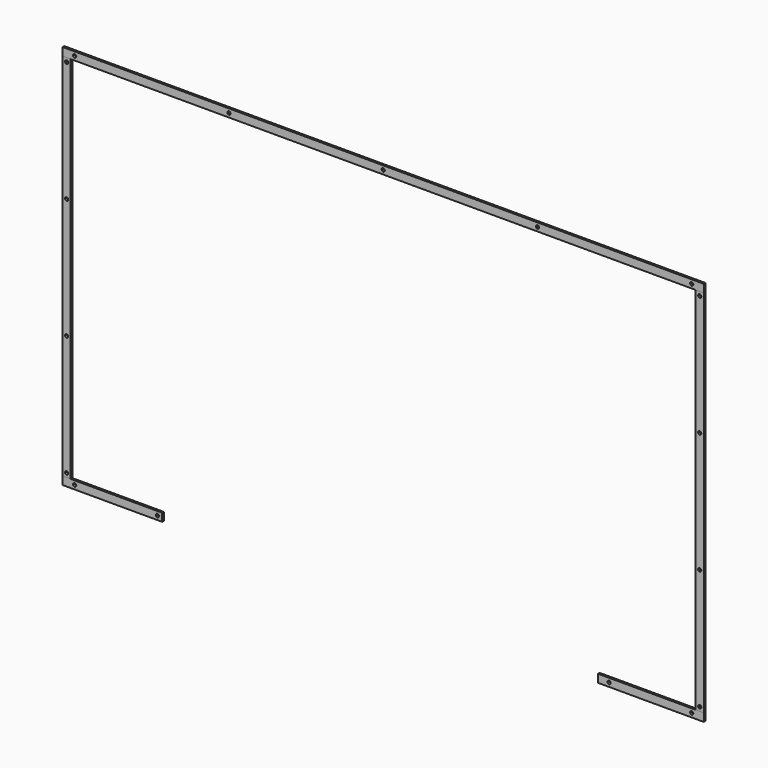
from build123d import *

# Parameters (mm, degrees)
F1_DEPTH = 1.5875
F0_W     = 12.7
F0_H     = 585.7875
F2_DEPTH = 1.5875
F0_R     = 5.969
F3_DEPTH = 1.5875
F4_DEPTH = 1.5875
F5_DEPTH = 1.5875


with BuildPart() as f1:
    # F0 (on Front) → F1 (new body, symmetric)
    with BuildSketch(Plane.XZ):
        Polygon((-350.29902, -292.89375), (-495.3, -292.89375), (-508, -292.89375), (-508, -305.59375), (-350.29902, -305.59375), align=None)
        Polygon((-486.41, -299.24375), (-486.41, -301.78375), (-488.95, -301.78375), (-491.49, -301.78375), (-491.49, -299.24375), (-491.49, -296.70375), (-488.95, -296.70375), (-486.41, -296.70375), align=None, mode=Mode.SUBTRACT)
        Polygon((-357.84, -296.70375), (-355.3, -296.70375), (-355.3, -299.24375), (-355.3, -301.78375), (-357.84, -301.78375), (-360.38, -301.78375), (-360.38, -299.24375), (-360.38, -296.70375), align=None, mode=Mode.SUBTRACT)
        with BuildLine():
            ThreePointArc((-360.38, -299.24375), (-359.636051, -297.447699), (-357.84, -296.70375))
            Line((-357.84, -296.70375), (-360.38, -296.70375))
            Line((-360.38, -296.70375), (-360.38, -299.24375))
        make_face()
        with BuildLine():
            ThreePointArc((-357.84, -301.78375), (-359.636051, -301.039801), (-360.38, -299.24375))
            Line((-360.38, -299.24375), (-360.38, -301.78375))
            Line((-360.38, -301.78375), (-357.84, -301.78375))
        make_face()
        with BuildLine():
            Line((-355.3, -301.78375), (-355.3, -299.24375))
            ThreePointArc((-355.3, -299.24375), (-356.043949, -301.039801), (-357.84, -301.78375))
            Line((-357.84, -301.78375), (-355.3, -301.78375))
        make_face()
        with BuildLine():
            Line((-355.3, -299.24375), (-355.3, -296.70375))
            Line((-355.3, -296.70375), (-357.84, -296.70375))
            ThreePointArc((-357.84, -296.70375), (-356.043949, -297.447699), (-355.3, -299.24375))
        make_face()
        with BuildLine():
            Line((-491.49, -296.70375), (-491.49, -299.24375))
            ThreePointArc((-491.49, -299.24375), (-490.746051, -297.447699), (-488.95, -296.70375))
            Line((-488.95, -296.70375), (-491.49, -296.70375))
        make_face()
        with BuildLine():
            Line((-491.49, -301.78375), (-488.95, -301.78375))
            ThreePointArc((-488.95, -301.78375), (-490.746051, -301.039801), (-491.49, -299.24375))
            Line((-491.49, -299.24375), (-491.49, -301.78375))
        make_face()
        with BuildLine():
            Line((-488.95, -301.78375), (-486.41, -301.78375))
            Line((-486.41, -301.78375), (-486.41, -299.24375))
            ThreePointArc((-486.41, -299.24375), (-487.153949, -301.039801), (-488.95, -301.78375))
        make_face()
        with BuildLine():
            ThreePointArc((-488.95, -296.70375), (-487.153949, -297.447699), (-486.41, -299.24375))
            Line((-486.41, -299.24375), (-486.41, -296.70375))
            Line((-486.41, -296.70375), (-488.95, -296.70375))
        make_face()
    extrude(amount=F1_DEPTH, both=True)


with BuildPart() as f2:
    # F0 (on Front) → F2 (new body, symmetric)
    with BuildSketch(Plane.XZ):
        with Locations((-501.65, 0)):
            Rectangle(F0_W, F0_H)
        Polygon((-504.19, -284.00375), (-501.65, -284.00375), (-499.11, -284.00375), (-499.11, -286.54375), (-499.11, -289.08375), (-501.65, -289.08375), (-504.19, -289.08375), (-504.19, -286.54375), align=None, mode=Mode.SUBTRACT)
        Polygon((-504.19, -92.974583), (-501.65, -92.974583), (-499.11, -92.974583), (-499.11, -95.514583), (-499.11, -98.054583), (-501.65, -98.054583), (-504.19, -98.054583), (-504.19, -95.514583), align=None, mode=Mode.SUBTRACT)
        Polygon((-504.19, 98.054583), (-501.65, 98.054583), (-499.11, 98.054583), (-499.11, 95.514583), (-499.11, 92.974583), (-501.65, 92.974583), (-504.19, 92.974583), (-504.19, 95.514583), align=None, mode=Mode.SUBTRACT)
        Polygon((-501.65, 284.00375), (-504.19, 284.00375), (-504.19, 286.54375), (-504.19, 289.08375), (-501.65, 289.08375), (-499.11, 289.08375), (-499.11, 286.54375), (-499.11, 284.00375), align=None, mode=Mode.SUBTRACT)
        with BuildLine():
            Line((-499.11, -284.00375), (-501.65, -284.00375))
            ThreePointArc((-501.65, -284.00375), (-499.853949, -284.747699), (-499.11, -286.54375))
            Line((-499.11, -286.54375), (-499.11, -284.00375))
        make_face()
        with BuildLine():
            ThreePointArc((-504.19, -286.54375), (-503.446051, -284.747699), (-501.65, -284.00375))
            Line((-501.65, -284.00375), (-504.19, -284.00375))
            Line((-504.19, -284.00375), (-504.19, -286.54375))
        make_face()
        with BuildLine():
            ThreePointArc((-501.65, -289.08375), (-503.446051, -288.339801), (-504.19, -286.54375))
            Line((-504.19, -286.54375), (-504.19, -289.08375))
            Line((-504.19, -289.08375), (-501.65, -289.08375))
        make_face()
        with BuildLine():
            Line((-499.11, -289.08375), (-499.11, -286.54375))
            ThreePointArc((-499.11, -286.54375), (-499.853949, -288.339801), (-501.65, -289.08375))
            Line((-501.65, -289.08375), (-499.11, -289.08375))
        make_face()
        with BuildLine():
            ThreePointArc((-501.65, -98.054583), (-503.446051, -97.310635), (-504.19, -95.514583))
            Line((-504.19, -95.514583), (-504.19, -98.054583))
            Line((-504.19, -98.054583), (-501.65, -98.054583))
        make_face()
        with BuildLine():
            Line((-499.11, -98.054583), (-499.11, -95.514583))
            ThreePointArc((-499.11, -95.514583), (-499.853949, -97.310635), (-501.65, -98.054583))
            Line((-501.65, -98.054583), (-499.11, -98.054583))
        make_face()
        with BuildLine():
            Line((-499.11, -92.974583), (-501.65, -92.974583))
            ThreePointArc((-501.65, -92.974583), (-499.853949, -93.718532), (-499.11, -95.514583))
            Line((-499.11, -95.514583), (-499.11, -92.974583))
        make_face()
        with BuildLine():
            ThreePointArc((-504.19, -95.514583), (-503.446051, -93.718532), (-501.65, -92.974583))
            Line((-501.65, -92.974583), (-504.19, -92.974583))
            Line((-504.19, -92.974583), (-504.19, -95.514583))
        make_face()
        with BuildLine():
            ThreePointArc((-504.19, 95.514583), (-503.446051, 97.310635), (-501.65, 98.054583))
            Line((-501.65, 98.054583), (-504.19, 98.054583))
            Line((-504.19, 98.054583), (-504.19, 95.514583))
        make_face()
        with BuildLine():
            Line((-499.11, 98.054583), (-501.65, 98.054583))
            ThreePointArc((-501.65, 98.054583), (-499.853949, 97.310635), (-499.11, 95.514583))
            Line((-499.11, 95.514583), (-499.11, 98.054583))
        make_face()
        with BuildLine():
            Line((-499.11, 92.974583), (-499.11, 95.514583))
            ThreePointArc((-499.11, 95.514583), (-499.853949, 93.718532), (-501.65, 92.974583))
            Line((-501.65, 92.974583), (-499.11, 92.974583))
        make_face()
        with BuildLine():
            ThreePointArc((-501.65, 92.974583), (-503.446051, 93.718532), (-504.19, 95.514583))
            Line((-504.19, 95.514583), (-504.19, 92.974583))
            Line((-504.19, 92.974583), (-501.65, 92.974583))
        make_face()
        with BuildLine():
            Line((-504.19, 289.08375), (-504.19, 286.54375))
            ThreePointArc((-504.19, 286.54375), (-503.446051, 288.339801), (-501.65, 289.08375))
            Line((-501.65, 289.08375), (-504.19, 289.08375))
        make_face()
        with BuildLine():
            Line((-499.11, 289.08375), (-501.65, 289.08375))
            ThreePointArc((-501.65, 289.08375), (-499.853949, 288.339801), (-499.11, 286.54375))
            Line((-499.11, 286.54375), (-499.11, 289.08375))
        make_face()
        with BuildLine():
            ThreePointArc((-499.11, 286.54375), (-499.853949, 284.747699), (-501.65, 284.00375))
            Line((-501.65, 284.00375), (-499.11, 284.00375))
            Line((-499.11, 284.00375), (-499.11, 286.54375))
        make_face()
        with BuildLine():
            Line((-504.19, 286.54375), (-504.19, 284.00375))
            Line((-504.19, 284.00375), (-501.65, 284.00375))
            ThreePointArc((-501.65, 284.00375), (-503.446051, 284.747699), (-504.19, 286.54375))
        make_face()
    extrude(amount=F2_DEPTH, both=True)


with BuildPart() as f3:
    # F0 (on Front) → F3 (new body, symmetric)
    with BuildSketch(Plane.XZ):
        Polygon((-508, 292.89375), (-495.3, 292.89375), (-508, 305.59375), align=None)
        Polygon((-495.3, 292.89375), (495.3, 292.89375), (508, 292.89375), (508, 305.59375), (-508, 305.59375), align=None)
        with Locations((-488.95, 299.24375)):
            Circle(F0_R, mode=Mode.SUBTRACT)
        Polygon((-244.475, 301.78375), (-241.935, 301.78375), (-241.935, 299.24375), (-241.935, 296.70375), (-244.475, 296.70375), (-247.015, 296.70375), (-247.015, 299.24375), (-247.015, 301.78375), align=None, mode=Mode.SUBTRACT)
        Polygon((0, 301.78375), (2.54, 301.78375), (2.54, 299.24375), (2.54, 296.70375), (0, 296.70375), (-2.54, 296.70375), (-2.54, 299.24375), (-2.54, 301.78375), align=None, mode=Mode.SUBTRACT)
        Polygon((244.475, 296.70375), (241.935, 296.70375), (241.935, 299.24375), (241.935, 301.78375), (244.475, 301.78375), (247.015, 301.78375), (247.015, 299.24375), (247.015, 296.70375), align=None, mode=Mode.SUBTRACT)
        Polygon((486.41, 299.24375), (486.41, 301.78375), (488.95, 301.78375), (491.49, 301.78375), (491.49, 299.24375), (491.49, 296.70375), (488.95, 296.70375), (486.41, 296.70375), align=None, mode=Mode.SUBTRACT)
        with Locations((-488.95, 299.24375)):
            Circle(F0_R)
        Polygon((-486.41, 299.24375), (-486.41, 296.70375), (-488.95, 296.70375), (-491.49, 296.70375), (-491.49, 299.24375), (-491.49, 301.78375), (-488.95, 301.78375), (-486.41, 301.78375), align=None, mode=Mode.SUBTRACT)
        with BuildLine():
            ThreePointArc((-488.95, 301.78375), (-487.153949, 301.039801), (-486.41, 299.24375))
            Line((-486.41, 299.24375), (-486.41, 301.78375))
            Line((-486.41, 301.78375), (-488.95, 301.78375))
        make_face()
        with BuildLine():
            Line((-488.95, 296.70375), (-486.41, 296.70375))
            Line((-486.41, 296.70375), (-486.41, 299.24375))
            ThreePointArc((-486.41, 299.24375), (-487.153949, 297.447699), (-488.95, 296.70375))
        make_face()
        with BuildLine():
            Line((-491.49, 301.78375), (-491.49, 299.24375))
            ThreePointArc((-491.49, 299.24375), (-490.746051, 301.039801), (-488.95, 301.78375))
            Line((-488.95, 301.78375), (-491.49, 301.78375))
        make_face()
        with BuildLine():
            Line((-491.49, 296.70375), (-488.95, 296.70375))
            ThreePointArc((-488.95, 296.70375), (-490.746051, 297.447699), (-491.49, 299.24375))
            Line((-491.49, 299.24375), (-491.49, 296.70375))
        make_face()
        with BuildLine():
            ThreePointArc((-247.015, 299.24375), (-246.271051, 301.039801), (-244.475, 301.78375))
            Line((-244.475, 301.78375), (-247.015, 301.78375))
            Line((-247.015, 301.78375), (-247.015, 299.24375))
        make_face()
        with BuildLine():
            Line((-241.935, 299.24375), (-241.935, 301.78375))
            Line((-241.935, 301.78375), (-244.475, 301.78375))
            ThreePointArc((-244.475, 301.78375), (-242.678949, 301.039801), (-241.935, 299.24375))
        make_face()
        with BuildLine():
            Line((-241.935, 296.70375), (-241.935, 299.24375))
            ThreePointArc((-241.935, 299.24375), (-242.678949, 297.447699), (-244.475, 296.70375))
            Line((-244.475, 296.70375), (-241.935, 296.70375))
        make_face()
        with BuildLine():
            ThreePointArc((-244.475, 296.70375), (-246.271051, 297.447699), (-247.015, 299.24375))
            Line((-247.015, 299.24375), (-247.015, 296.70375))
            Line((-247.015, 296.70375), (-244.475, 296.70375))
        make_face()
        with BuildLine():
            ThreePointArc((-2.54, 299.24375), (-1.796051, 301.039801), (0, 301.78375))
            Line((0, 301.78375), (-2.54, 301.78375))
            Line((-2.54, 301.78375), (-2.54, 299.24375))
        make_face()
        with BuildLine():
            Line((2.54, 299.24375), (2.54, 301.78375))
            Line((2.54, 301.78375), (0, 301.78375))
            ThreePointArc((0, 301.78375), (1.796051, 301.039801), (2.54, 299.24375))
        make_face()
        with BuildLine():
            ThreePointArc((0, 296.70375), (-1.796051, 297.447699), (-2.54, 299.24375))
            Line((-2.54, 299.24375), (-2.54, 296.70375))
            Line((-2.54, 296.70375), (0, 296.70375))
        make_face()
        with BuildLine():
            Line((2.54, 296.70375), (2.54, 299.24375))
            ThreePointArc((2.54, 299.24375), (1.796051, 297.447699), (0, 296.70375))
            Line((0, 296.70375), (2.54, 296.70375))
        make_face()
        with BuildLine():
            Line((241.935, 301.78375), (241.935, 299.24375))
            ThreePointArc((241.935, 299.24375), (242.678949, 301.039801), (244.475, 301.78375))
            Line((244.475, 301.78375), (241.935, 301.78375))
        make_face()
        with BuildLine():
            ThreePointArc((244.475, 301.78375), (246.271051, 301.039801), (247.015, 299.24375))
            Line((247.015, 299.24375), (247.015, 301.78375))
            Line((247.015, 301.78375), (244.475, 301.78375))
        make_face()
        with BuildLine():
            ThreePointArc((247.015, 299.24375), (246.271051, 297.447699), (244.475, 296.70375))
            Line((244.475, 296.70375), (247.015, 296.70375))
            Line((247.015, 296.70375), (247.015, 299.24375))
        make_face()
        with BuildLine():
            Line((241.935, 299.24375), (241.935, 296.70375))
            Line((241.935, 296.70375), (244.475, 296.70375))
            ThreePointArc((244.475, 296.70375), (242.678949, 297.447699), (241.935, 299.24375))
        make_face()
        with BuildLine():
            Line((488.95, 301.78375), (486.41, 301.78375))
            Line((486.41, 301.78375), (486.41, 299.24375))
            ThreePointArc((486.41, 299.24375), (487.153949, 301.039801), (488.95, 301.78375))
        make_face()
        with BuildLine():
            Line((491.49, 301.78375), (488.95, 301.78375))
            ThreePointArc((488.95, 301.78375), (490.746051, 301.039801), (491.49, 299.24375))
            Line((491.49, 299.24375), (491.49, 301.78375))
        make_face()
        with BuildLine():
            Line((491.49, 296.70375), (491.49, 299.24375))
            ThreePointArc((491.49, 299.24375), (490.746051, 297.447699), (488.95, 296.70375))
            Line((488.95, 296.70375), (491.49, 296.70375))
        make_face()
        with BuildLine():
            ThreePointArc((488.95, 296.70375), (487.153949, 297.447699), (486.41, 299.24375))
            Line((486.41, 299.24375), (486.41, 296.70375))
            Line((486.41, 296.70375), (488.95, 296.70375))
        make_face()
    extrude(amount=F3_DEPTH, both=True)


with BuildPart() as f4:
    # F0 (on Front) → F4 (new body, symmetric)
    with BuildSketch(Plane.XZ):
        with Locations((501.65, 0)):
            Rectangle(F0_W, F0_H)
        Polygon((501.65, -289.08375), (499.11, -289.08375), (499.11, -286.54375), (499.11, -284.00375), (501.65, -284.00375), (504.19, -284.00375), (504.19, -286.54375), (504.19, -289.08375), align=None, mode=Mode.SUBTRACT)
        Polygon((501.65, -98.054583), (499.11, -98.054583), (499.11, -95.514583), (499.11, -92.974583), (501.65, -92.974583), (504.19, -92.974583), (504.19, -95.514583), (504.19, -98.054583), align=None, mode=Mode.SUBTRACT)
        Polygon((504.19, 95.514583), (504.19, 92.974583), (501.65, 92.974583), (499.11, 92.974583), (499.11, 95.514583), (499.11, 98.054583), (501.65, 98.054583), (504.19, 98.054583), align=None, mode=Mode.SUBTRACT)
        Polygon((501.65, 284.00375), (499.11, 284.00375), (499.11, 286.54375), (499.11, 289.08375), (501.65, 289.08375), (504.19, 289.08375), (504.19, 286.54375), (504.19, 284.00375), align=None, mode=Mode.SUBTRACT)
        with BuildLine():
            Line((499.11, 289.08375), (499.11, 286.54375))
            ThreePointArc((499.11, 286.54375), (499.853949, 288.339801), (501.65, 289.08375))
            Line((501.65, 289.08375), (499.11, 289.08375))
        make_face()
        with BuildLine():
            Line((504.19, 289.08375), (501.65, 289.08375))
            ThreePointArc((501.65, 289.08375), (503.446051, 288.339801), (504.19, 286.54375))
            Line((504.19, 286.54375), (504.19, 289.08375))
        make_face()
        with BuildLine():
            ThreePointArc((504.19, 286.54375), (503.446051, 284.747699), (501.65, 284.00375))
            Line((501.65, 284.00375), (504.19, 284.00375))
            Line((504.19, 284.00375), (504.19, 286.54375))
        make_face()
        with BuildLine():
            Line((499.11, 286.54375), (499.11, 284.00375))
            Line((499.11, 284.00375), (501.65, 284.00375))
            ThreePointArc((501.65, 284.00375), (499.853949, 284.747699), (499.11, 286.54375))
        make_face()
        with BuildLine():
            Line((499.11, 98.054583), (499.11, 95.514583))
            ThreePointArc((499.11, 95.514583), (499.853949, 97.310635), (501.65, 98.054583))
            Line((501.65, 98.054583), (499.11, 98.054583))
        make_face()
        with BuildLine():
            ThreePointArc((501.65, 98.054583), (503.446051, 97.310635), (504.19, 95.514583))
            Line((504.19, 95.514583), (504.19, 98.054583))
            Line((504.19, 98.054583), (501.65, 98.054583))
        make_face()
        with BuildLine():
            Line((501.65, 92.974583), (504.19, 92.974583))
            Line((504.19, 92.974583), (504.19, 95.514583))
            ThreePointArc((504.19, 95.514583), (503.446051, 93.718532), (501.65, 92.974583))
        make_face()
        with BuildLine():
            Line((499.11, 92.974583), (501.65, 92.974583))
            ThreePointArc((501.65, 92.974583), (499.853949, 93.718532), (499.11, 95.514583))
            Line((499.11, 95.514583), (499.11, 92.974583))
        make_face()
        with BuildLine():
            ThreePointArc((501.65, -92.974583), (503.446051, -93.718532), (504.19, -95.514583))
            Line((504.19, -95.514583), (504.19, -92.974583))
            Line((504.19, -92.974583), (501.65, -92.974583))
        make_face()
        with BuildLine():
            Line((499.11, -92.974583), (499.11, -95.514583))
            ThreePointArc((499.11, -95.514583), (499.853949, -93.718532), (501.65, -92.974583))
            Line((501.65, -92.974583), (499.11, -92.974583))
        make_face()
        with BuildLine():
            Line((499.11, -95.514583), (499.11, -98.054583))
            Line((499.11, -98.054583), (501.65, -98.054583))
            ThreePointArc((501.65, -98.054583), (499.853949, -97.310635), (499.11, -95.514583))
        make_face()
        with BuildLine():
            ThreePointArc((504.19, -95.514583), (503.446051, -97.310635), (501.65, -98.054583))
            Line((501.65, -98.054583), (504.19, -98.054583))
            Line((504.19, -98.054583), (504.19, -95.514583))
        make_face()
        with BuildLine():
            Line((499.11, -284.00375), (499.11, -286.54375))
            ThreePointArc((499.11, -286.54375), (499.853949, -284.747699), (501.65, -284.00375))
            Line((501.65, -284.00375), (499.11, -284.00375))
        make_face()
        with BuildLine():
            ThreePointArc((501.65, -284.00375), (503.446051, -284.747699), (504.19, -286.54375))
            Line((504.19, -286.54375), (504.19, -284.00375))
            Line((504.19, -284.00375), (501.65, -284.00375))
        make_face()
        with BuildLine():
            ThreePointArc((504.19, -286.54375), (503.446051, -288.339801), (501.65, -289.08375))
            Line((501.65, -289.08375), (504.19, -289.08375))
            Line((504.19, -289.08375), (504.19, -286.54375))
        make_face()
        with BuildLine():
            Line((499.11, -286.54375), (499.11, -289.08375))
            Line((499.11, -289.08375), (501.65, -289.08375))
            ThreePointArc((501.65, -289.08375), (499.853949, -288.339801), (499.11, -286.54375))
        make_face()
    extrude(amount=F4_DEPTH, both=True)


with BuildPart() as f5:
    # F0 (on Front) → F5 (new body, symmetric)
    with BuildSketch(Plane.XZ):
        Polygon((508, -292.89375), (495.3, -292.89375), (340.29904, -292.89375), (340.29904, -305.59375), (508, -305.59375), align=None)
        Polygon((357.84, -296.70375), (360.38, -296.70375), (360.38, -299.24375), (360.38, -301.78375), (357.84, -301.78375), (355.3, -301.78375), (355.3, -299.24375), (355.3, -296.70375), align=None, mode=Mode.SUBTRACT)
        Polygon((486.41, -299.24375), (486.41, -296.70375), (488.95, -296.70375), (491.49, -296.70375), (491.49, -299.24375), (491.49, -301.78375), (488.95, -301.78375), (486.41, -301.78375), align=None, mode=Mode.SUBTRACT)
        with BuildLine():
            Line((360.38, -299.24375), (360.38, -296.70375))
            Line((360.38, -296.70375), (357.84, -296.70375))
            ThreePointArc((357.84, -296.70375), (359.636051, -297.447699), (360.38, -299.24375))
        make_face()
        with BuildLine():
            ThreePointArc((355.3, -299.24375), (356.043949, -297.447699), (357.84, -296.70375))
            Line((357.84, -296.70375), (355.3, -296.70375))
            Line((355.3, -296.70375), (355.3, -299.24375))
        make_face()
        with BuildLine():
            Line((355.3, -301.78375), (357.84, -301.78375))
            ThreePointArc((357.84, -301.78375), (356.043949, -301.039801), (355.3, -299.24375))
            Line((355.3, -299.24375), (355.3, -301.78375))
        make_face()
        with BuildLine():
            Line((360.38, -301.78375), (360.38, -299.24375))
            ThreePointArc((360.38, -299.24375), (359.636051, -301.039801), (357.84, -301.78375))
            Line((357.84, -301.78375), (360.38, -301.78375))
        make_face()
        with BuildLine():
            Line((488.95, -296.70375), (486.41, -296.70375))
            Line((486.41, -296.70375), (486.41, -299.24375))
            ThreePointArc((486.41, -299.24375), (487.153949, -297.447699), (488.95, -296.70375))
        make_face()
        with BuildLine():
            Line((491.49, -296.70375), (488.95, -296.70375))
            ThreePointArc((488.95, -296.70375), (490.746051, -297.447699), (491.49, -299.24375))
            Line((491.49, -299.24375), (491.49, -296.70375))
        make_face()
        with BuildLine():
            ThreePointArc((491.49, -299.24375), (490.746051, -301.039801), (488.95, -301.78375))
            Line((488.95, -301.78375), (491.49, -301.78375))
            Line((491.49, -301.78375), (491.49, -299.24375))
        make_face()
        with BuildLine():
            ThreePointArc((488.95, -301.78375), (487.153949, -301.039801), (486.41, -299.24375))
            Line((486.41, -299.24375), (486.41, -301.78375))
            Line((486.41, -301.78375), (488.95, -301.78375))
        make_face()
    extrude(amount=F5_DEPTH, both=True)


solid = Compound([f1.part, f2.part, f3.part, f4.part, f5.part])
